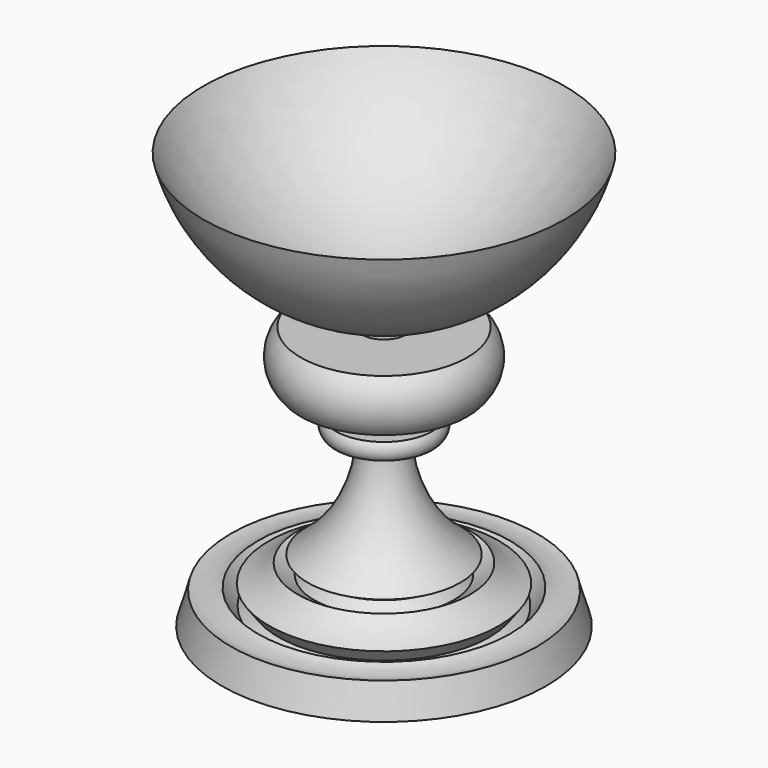
from build123d import *


with BuildPart() as f1:
    # F0 (on Front) → F1 (revolve)
    with BuildSketch(Plane.XZ):
        with BuildLine():
            ThreePointArc((0, 27.922807), (11.633132, 10.720894), (29.417901, 0))
            Line((29.417901, 0), (39.577901, 0))
            Line((39.577901, 0), (37.32056, 7.716394))
            ThreePointArc((37.32056, 7.716394), (33.982458, 7.43688), (30.747365, 8.305916))
            Line((30.747365, 8.305916), (27.896134, 4.393922))
            Line((27.896134, 4.393922), (25.723191, 5.977657))
            Line((25.723191, 5.977657), (28.043696, 9.161475))
            ThreePointArc((28.043696, 9.161475), (24.268213, 10.96144), (21.020159, 13.596644))
            Line((21.020159, 13.596644), (17.022632, 11.097828))
            Line((17.022632, 11.097828), (15.03585, 13.368433))
            Line((15.03585, 13.368433), (18.615764, 15.365713))
            ThreePointArc((18.615764, 15.365713), (8.829007, 26.898013), (5.313547, 41.609101))
            Line((5.313547, 41.609101), (5.313547, 43.09845))
            Line((5.313547, 43.09845), (5.313547, 45.622803))
            Line((5.313547, 45.622803), (5.313547, 49.312539))
            Line((5.313547, 49.312539), (5.313547, 51.549842))
            Line((5.313547, 51.549842), (0, 51.549842))
            Line((0, 51.549842), (0, 27.922807))
        make_face()
        Polygon((0, 64.249842), (0, 51.549842), (5.313547, 51.549842), (5.313547, 52.43462), (5.313547, 64.249842), align=None)
        with BuildLine():
            Line((0, 68.059842), (0, 64.249842))
            Line((0, 64.249842), (5.313547, 64.249842))
            Line((5.313547, 64.249842), (5.313547, 68.36966))
            ThreePointArc((5.313547, 68.36966), (2.661286, 68.137362), (0, 68.059842))
        make_face()
        Polygon((5.313547, 52.43462), (5.313547, 51.549842), (20.32, 51.549842), (20.32, 64.249842), (5.313547, 64.249842), align=None)
        with BuildLine():
            Line((0, 71.869842), (0, 68.059842))
            ThreePointArc((0, 68.059842), (2.661286, 68.137362), (5.313547, 68.36966))
            ThreePointArc((5.313547, 68.36966), (29.752047, 79.064801), (44.061784, 101.578303))
            ThreePointArc((44.061784, 101.578303), (25.722054, 81.249565), (0, 71.869842))
        make_face()
        with BuildLine():
            Line((20.32, 64.249842), (20.32, 51.549842))
            ThreePointArc((20.32, 51.549842), (22.877755, 57.899842), (20.32, 64.249842))
        make_face()
        Polygon((11.771856, 45.622803), (5.313547, 45.622803), (5.313547, 43.09845), (5.313547, 41.609101), (11.771856, 41.609101), align=None)
        with BuildLine():
            ThreePointArc((11.771856, 41.609101), (12.513802, 43.615952), (11.771856, 45.622803))
            Line((11.771856, 45.622803), (11.771856, 41.609101))
        make_face()
    revolve(axis=Axis((0, 0, 47.991325), (0, 0, 1)))


solid = f1.part
